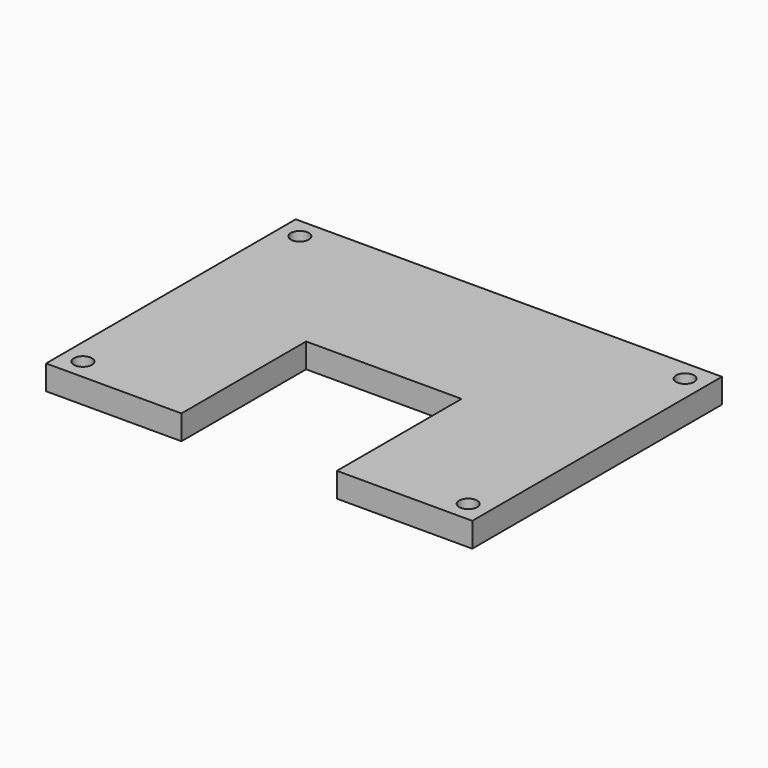
from build123d import *

# Parameters (mm, degrees)
SKETCH_R  = 1.1
PAD_DEPTH = 3


with BuildPart() as part:
    # Sketch → Pad (new body)
    with BuildSketch(Plane.XY):
        Polygon((0, 0), (16.55, 0), (16.55, 19.05), (35.55, 19.05), (35.55, 0), (52.1, 0), (52.1, 38.15), (0, 38.15), align=None)
        with Locations((2.5, 35.65)):
            Circle(SKETCH_R, mode=Mode.SUBTRACT)
        with Locations((2.5, 2.5)):
            Circle(SKETCH_R, mode=Mode.SUBTRACT)
        with Locations((49.6, 2.5)):
            Circle(SKETCH_R, mode=Mode.SUBTRACT)
        with Locations((49.6, 35.65)):
            Circle(SKETCH_R, mode=Mode.SUBTRACT)
    extrude(amount=PAD_DEPTH)


solid = part.part
